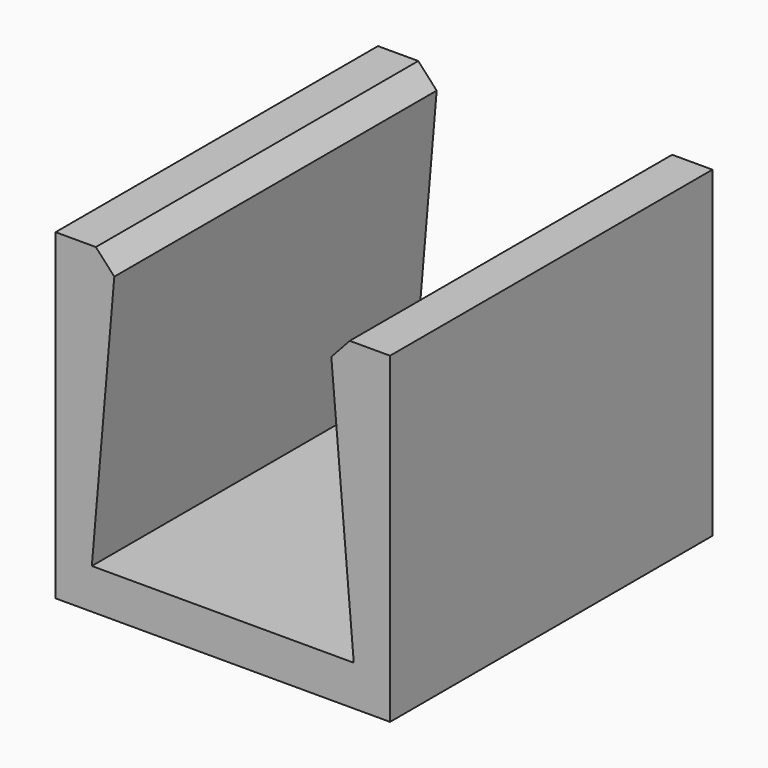
from build123d import *

# Parameters (mm, degrees)
F1_DEPTH = 10
F2_SIZE  = 0.5


with BuildPart() as f1:
    # F0 (on Front) → F1 (new body)
    with BuildSketch(Plane.XZ):
        Polygon((0, 1), (0, 0), (4.15, 0), (4.15, 8), (2.65, 8), (3.25, 1), align=None)
        Polygon((-4.15, 0), (0, 0), (0, 1), (-3.25, 1), (-2.65, 8), (-4.15, 8), align=None)
    extrude(amount=F1_DEPTH)

    # F2
    f2_edges = [f1.edges().sort_by_distance(p)[0] for p in [
        (-2.65, -5, 8),
        (2.65, -5, 8),
    ]]
    chamfer(f2_edges, length=F2_SIZE)


solid = f1.part
